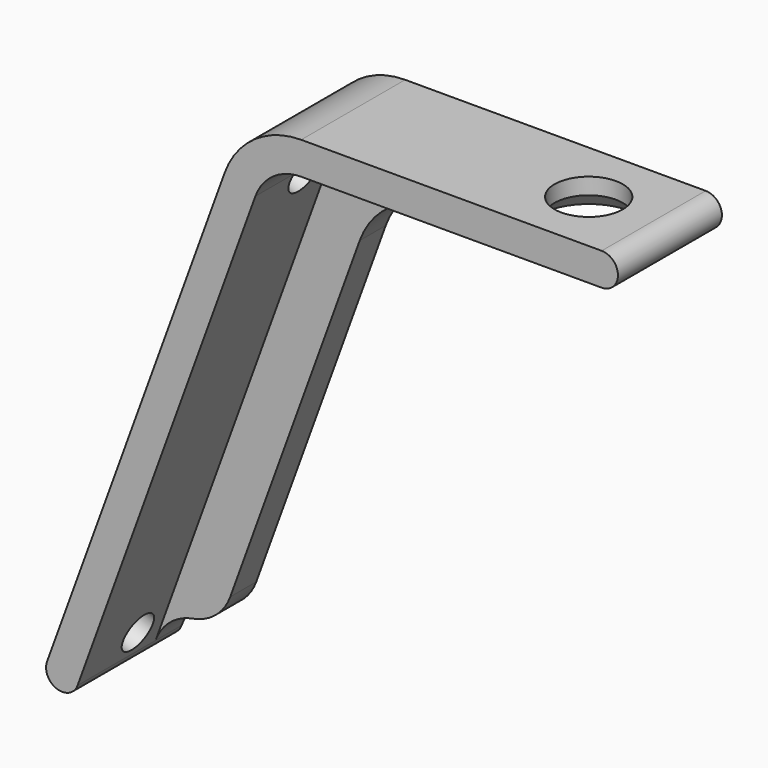
from build123d import *

# Parameters (mm, degrees)
PAD_DEPTH       = 4
PAD001_DEPTH    = 2
SKETCH004_R     = 4.1
POCKET002_DEPTH = 32.7030832918
SKETCH001_R     = 2.1
POCKET_DEPTH    = 5
SKETCH002_R     = 1.15
POCKET001_DEPTH = 33.4827417793
CHAMFER_SIZE    = 0.99


with BuildPart() as part:
    # Sketch → Pad (new body, symmetric)
    with BuildSketch(Plane.XZ):
        with BuildLine():
            Line((-1.1974254129, -3.2898992834), (-12.1420699993, -33.3600631485))
            ThreePointArc((-12.1420699993, -33.3600631485), (-11.5443975218, -34.6417759126), (-10.2626847577, -34.0441034352))
            Line((-10.2626847577, -34.0441034352), (0.6819598287, -3.97393957))
            ThreePointArc((3.501037691, -2), (1.780308382, -2.5425438671), (0.6819598287, -3.97393957))
            Line((3.501037691, -2), (22, -2))
            ThreePointArc((22, -2), (23, -1), (22, 0))
            Line((3.501037691, 0), (22, 0))
            ThreePointArc((3.501037691, 0), (0.6331555093, -0.9042397786), (-1.1974254129, -3.2898992834))
        make_face()
    extrude(amount=PAD_DEPTH, both=True)

    # Sketch003 → Pad001 (join)
    with BuildSketch(Plane.XZ.offset(-4)):
        with BuildLine():
            Line((-1.1974254129, -3.2898992834), (-12.1420699993, -33.3600631485))
            Line((-12.1420699993, -33.3600631485), (-10.2626847577, -34.0441034352))
            ThreePointArc((-7.9645514284, -32.1157406061), (-9.3719697244, -32.7720305358), (-10.2626847577, -34.0441034352))
            ThreePointArc((-7.9645514284, -32.1157406061), (-6.5571331323, -31.4594506764), (-5.666418099, -30.1873777771))
            Line((-5.666418099, -30.1873777771), (2.3036122782, -8.2898992834))
            ThreePointArc((7.0020753821, -5), (4.1341932003, -5.9042397786), (2.3036122782, -8.2898992834))
            Line((9.8038475773, -5), (7.0020753821, -5))
            ThreePointArc((9.8038475773, -5), (11.3038475773, -4.5980762114), (12.4019237887, -3.5))
            ThreePointArc((15, -2), (13.5, -2.4019237887), (12.4019237887, -3.5))
            Line((15, 0), (15, -2))
            Line((3.501037691, 0), (15, 0))
            ThreePointArc((3.501037691, 0), (0.6331555093, -0.9042397786), (-1.1974254129, -3.2898992834))
        make_face()
    extrude(amount=PAD001_DEPTH)

    # Sketch004 → Pocket002 (cut, through all)
    with BuildSketch(Plane.XY.offset(-2)):
        with Locations((18, 0)):
            Circle(SKETCH004_R)
    extrude(amount=-POCKET002_DEPTH, mode=Mode.SUBTRACT)

    # Sketch001 → Pocket (cut)
    with BuildSketch(Plane.XY):
        with Locations((18, 0)):
            Circle(SKETCH001_R)
    extrude(amount=-POCKET_DEPTH, mode=Mode.SUBTRACT)

    # Sketch002 (on Face2 of Pocket) → Pocket001 (cut, through all)
    with BuildSketch(Plane(origin=(0, 0, 0), x_dir=(-0.3420201433, 0, -0.9396926208), z_dir=(-0.9396926208, 0, 0.3420201433))):
        with Locations((4, 0)):
            Circle(SKETCH002_R)
        with Locations((34, 0)):
            Circle(SKETCH002_R)
    extrude(amount=-POCKET001_DEPTH, mode=Mode.SUBTRACT)

    # Chamfer
    chamfer_edges = [part.edges().sort_by_distance(p)[0] for p in [
        (15.9, 0, -2),
    ]]
    chamfer(chamfer_edges, length=CHAMFER_SIZE)


solid = part.part
